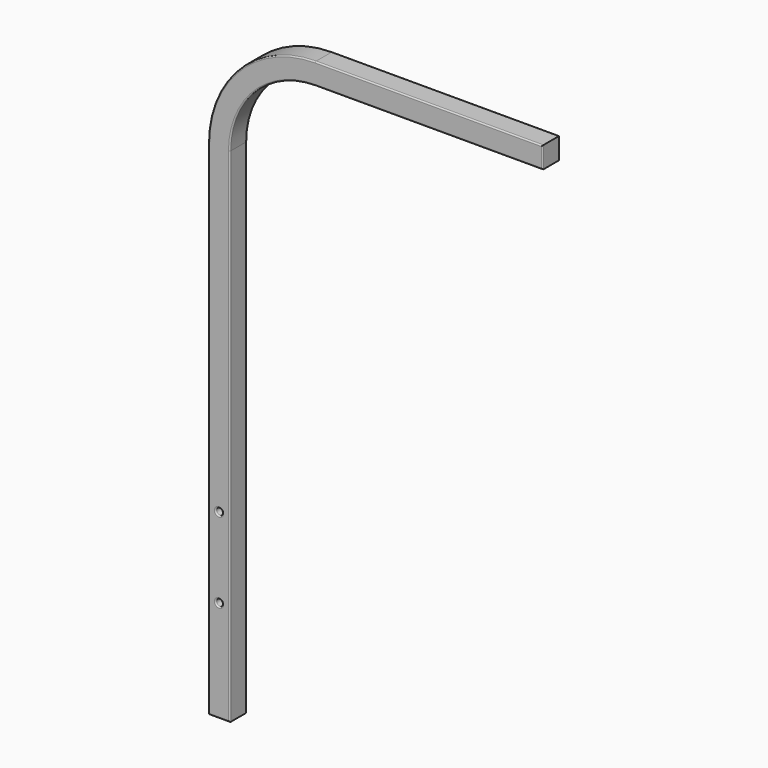
from build123d import *

# Parameters (mm, degrees)
F0_R     = 3.96875
F1_DEPTH = 25.4
F2_R     = 1.524


with BuildPart() as f1:
    # F0 (on Front) → F1 (new body)
    with BuildSketch(Plane.XZ):
        with BuildLine():
            Line((0, 596.9), (0, 0))
            Line((0, 0), (25.4, 0))
            Line((25.4, 0), (25.4, 596.9))
            ThreePointArc((25.4, 596.9), (55.157951, 668.742049), (127, 698.5))
            Line((127, 698.5), (396.875, 698.5))
            Line((396.875, 698.5), (396.875, 723.9))
            Line((396.875, 723.9), (127, 723.9))
            ThreePointArc((127, 723.9), (37.197439, 686.702561), (0, 596.9))
        make_face()
        with Locations((12.7, 120.65)):
            Circle(F0_R, mode=Mode.SUBTRACT)
        with Locations((12.7, 215.9)):
            Circle(F0_R, mode=Mode.SUBTRACT)
    extrude(amount=F1_DEPTH)

    # F2
    f2_edges = [f1.edges().sort_by_distance(p)[0] for p in [
        (25.4, -25.4, 298.45),
        (0, -25.4, 298.45),
        (0, 0, 298.45),
        (25.4, 0, 298.45),
        (12.7, 0, 0),
        (55.157951, 0, 668.742049),
        (261.9375, 0, 698.5),
        (396.875, 0, 711.2),
        (261.9375, 0, 723.9),
        (37.197439, 0, 686.702561),
        (8.73125, 0, 120.65),
        (8.73125, 0, 215.9),
        (12.7, -25.4, 0),
        (55.157951, -25.4, 668.742049),
        (261.9375, -25.4, 698.5),
        (396.875, -25.4, 711.2),
        (261.9375, -25.4, 723.9),
        (37.197439, -25.4, 686.702561),
        (8.73125, -25.4, 120.65),
        (8.73125, -25.4, 215.9),
    ]]
    fillet(f2_edges, radius=F2_R)


solid = f1.part
